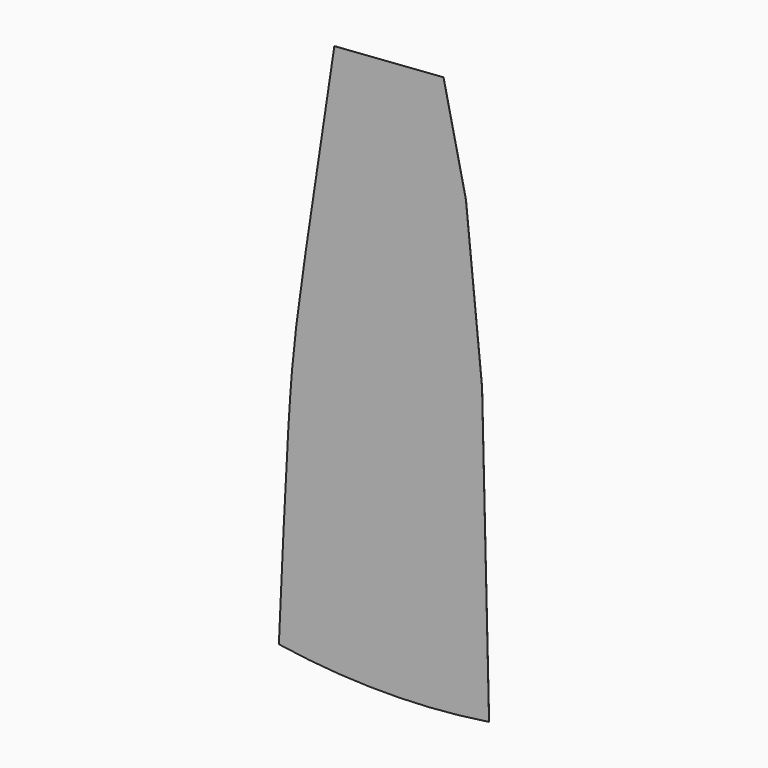
from build123d import *

# Parameters (mm, degrees)
F3_DEPTH = 1


with BuildPart() as f3:
    # F2 (on face) → F3 (new body)
    with BuildSketch(Plane.XZ):
        with BuildLine():
            add(Edge.make_bspline(
                [(0, 0), (42.7046461039, 949.5739841818), (112.432369512, 2500.0289853407), (182.6730771476, 3127.1224176745), (239.8061324131, 3540.974850897), (243.3089820247, 3566.1859769213)],
                knots=[0, 0, 0, 0, 0.3762966151, 0.6144133881, 0.6295007819, 0.6295007819, 0.6295007819, 0.6295007819], degree=3))
            ThreePointArc((0, 0), (1175, -90), (2350, 0))
            Line((2350, 0), (2271.5283712436, 3268.1488832628))
            Line((2271.5283712436, 3268.1488832628), (243.3089820247, 3566.1859769213))
        make_face()
        with BuildLine():
            add(Edge.make_bspline(
                [(243.3089820247, 3566.1859769213), (304.4695829495, 4006.3783313189), (395.6668495319, 4614.6593811094), (495.5443397145, 5271.5159777768)],
                knots=[0.6295007819, 0.6295007819, 0.6295007819, 0.6295007819, 0.8929303241, 0.8929303241, 0.8929303241, 0.8929303241], degree=3))
            Line((243.3089820247, 3566.1859769213), (2271.5283712436, 3268.1488832628))
            Line((2271.5283712436, 3268.1488832628), (1445.8623999075, 4678.3213267406))
            Line((1445.8623999075, 4678.3213267406), (1150.303677945, 5183.1123434596))
            Line((1150.303677945, 5183.1123434596), (495.5443397145, 5271.5159777768))
        make_face()
        Polygon((1445.8623999075, 4678.3213267406), (2271.5283712436, 3268.1488832628), (2091.0671587364, 5056.0932909943), align=None)
        with BuildLine():
            add(Edge.make_bspline(
                [(495.5443397145, 5271.5159777768), (536.139067295, 5538.4921958656), (578.1677479332, 5813.492983042), (620.1964285714, 6088.4937702183)],
                knots=[0.8929303241, 0.8929303241, 0.8929303241, 0.8929303241, 1, 1, 1, 1], degree=3))
            Line((495.5443397145, 5271.5159777768), (1150.303677945, 5183.1123434596))
            Line((1150.303677945, 5183.1123434596), (620.1964285714, 6088.4937702183))
        make_face()
        Polygon((1150.303677945, 5183.1123434596), (1445.8623999075, 4678.3213267406), (2091.0671587364, 5056.0932909943), align=None)
        Polygon((1150.303677945, 5183.1123434596), (2091.0671587364, 5056.0932909943), (1840.4374521526, 6178.3084870094), (620.1964285714, 6088.4937702183), align=None)
    extrude(amount=F3_DEPTH)


solid = f3.part
